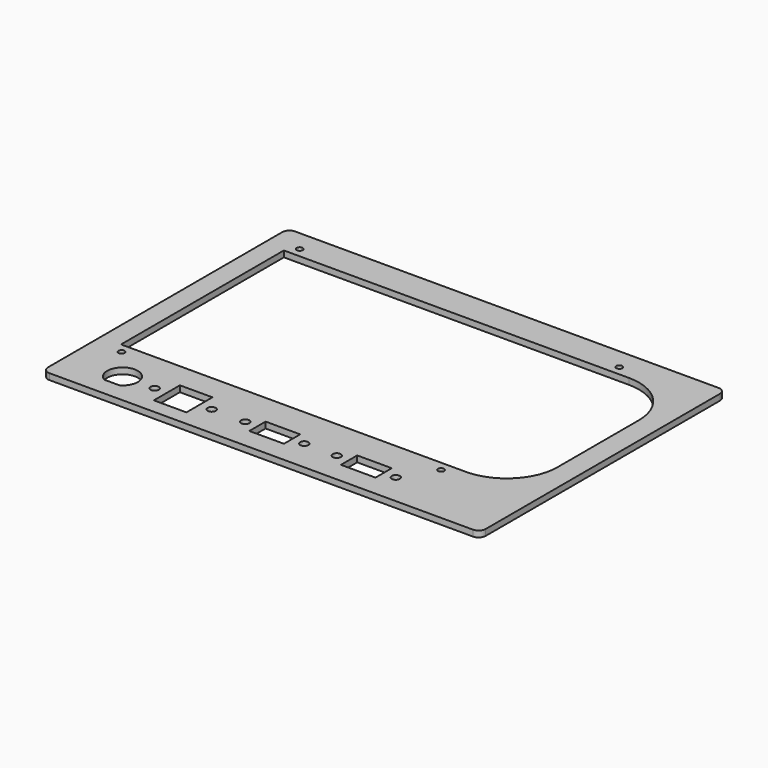
from build123d import *

# Parameters (mm, degrees)
SKETCH_R      = 1.5
SKETCH_R_2    = 2
SKETCH_W      = 17
SKETCH_H      = 10
SKETCH_W_2    = 16
SKETCH_H_2    = 16
EXTRUDE_DEPTH = 3


with BuildPart() as part:
    # Sketch → Extrude (new body)
    with BuildSketch(Plane.XY):
        with BuildLine():
            Line((-104, -75.4), (104, -75.4))
            ThreePointArc((104, -75.4), (106.474874, -74.374874), (107.5, -71.9))
            Line((107.5, -71.9), (107.5, 71.9))
            ThreePointArc((107.5, 71.9), (106.474874, 74.374874), (104, 75.4))
            Line((104, 75.4), (-104, 75.4))
            ThreePointArc((-104, 75.4), (-106.474874, 74.374874), (-107.5, 71.9))
            Line((-107.5, 71.9), (-107.5, -71.9))
            ThreePointArc((-107.5, -71.9), (-106.474874, -74.374874), (-104, -75.4))
        make_face()
        with Locations((-93.5, 65.1)):
            Circle(SKETCH_R, mode=Mode.SUBTRACT)
        with Locations((63.5, 65.1)):
            Circle(SKETCH_R, mode=Mode.SUBTRACT)
        with Locations((-93.5, -44.3)):
            Circle(SKETCH_R, mode=Mode.SUBTRACT)
        with Locations((63.5, -44.3)):
            Circle(SKETCH_R, mode=Mode.SUBTRACT)
        with Locations((-20.17, -60)):
            Circle(SKETCH_R_2, mode=Mode.SUBTRACT)
        with Locations((8.83, -60)):
            Circle(SKETCH_R_2, mode=Mode.SUBTRACT)
        with Locations((-64.67, -60)):
            Circle(SKETCH_R_2, mode=Mode.SUBTRACT)
        with Locations((-36.67, -60)):
            Circle(SKETCH_R_2, mode=Mode.SUBTRACT)
        with Locations((24.83, -60)):
            Circle(SKETCH_R_2, mode=Mode.SUBTRACT)
        with Locations((53.83, -60)):
            Circle(SKETCH_R_2, mode=Mode.SUBTRACT)
        with BuildLine():
            Line((-97.5, -39.6), (67.5, -39.6))
            Line((67.5, -39.6), (71.94, -39.6))
            ThreePointArc((71.94, -39.6), (89.61767, -32.27767), (96.94, -14.6))
            Line((96.94, 35.4), (96.94, -14.6))
            ThreePointArc((96.94, 35.4), (89.61767, 53.07767), (71.94, 60.4))
            Line((67.5, 60.4), (71.94, 60.4))
            Line((67.5, 60.4), (-97.5, 60.4))
            Line((-97.5, 60.4), (-97.5, -39.6))
        make_face(mode=Mode.SUBTRACT)
        with BuildLine():
            ThreePointArc((-76.708343, -66.5), (-80.45, -52.5), (-84.191657, -66.5))
            Line((-84.191657, -66.5), (-76.708343, -66.5))
        make_face(mode=Mode.SUBTRACT)
        with Locations((-5.67, -60)):
            Rectangle(SKETCH_W, SKETCH_H, mode=Mode.SUBTRACT)
        with Locations((-50.67, -60)):
            Rectangle(SKETCH_W_2, SKETCH_H_2, mode=Mode.SUBTRACT)
        with Locations((39.33, -60)):
            Rectangle(SKETCH_W, SKETCH_H, mode=Mode.SUBTRACT)
    extrude(amount=EXTRUDE_DEPTH)


solid = part.part
